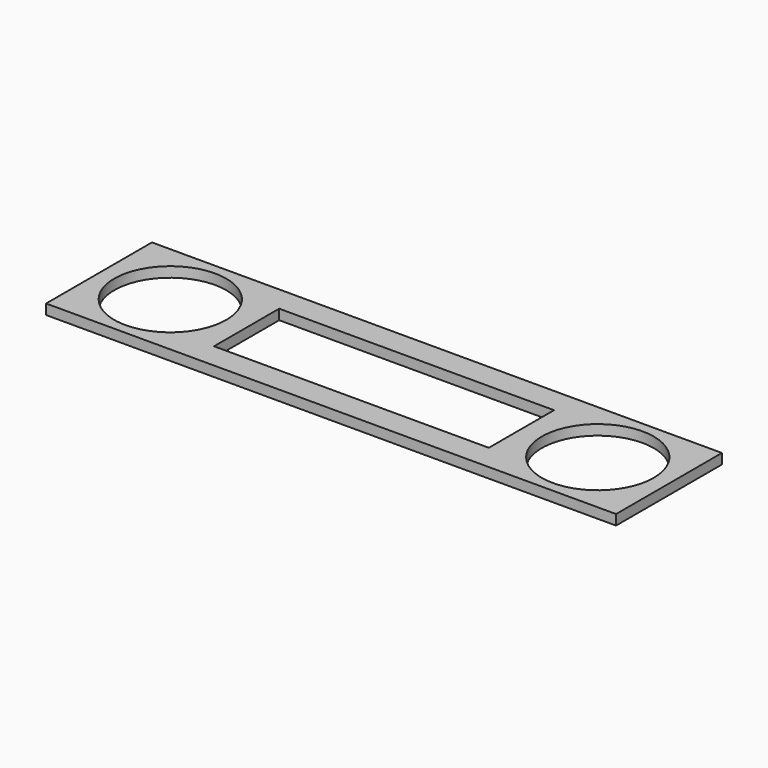
from build123d import *

# Parameters (mm, degrees)
F0_W     = 112
F0_H     = 26
F0_R     = 11
F0_W_2   = 54
F0_H_2   = 16
F1_DEPTH = 2


with BuildPart() as f1:
    # F0 (on Top) → F1 (new body)
    with BuildSketch(Plane.XY):
        Rectangle(F0_W, F0_H)
        with Locations((-42, 0)):
            Circle(F0_R, mode=Mode.SUBTRACT)
        Rectangle(F0_W_2, F0_H_2, mode=Mode.SUBTRACT)
        with Locations((42, 0)):
            Circle(F0_R, mode=Mode.SUBTRACT)
    extrude(amount=F1_DEPTH)


solid = f1.part
